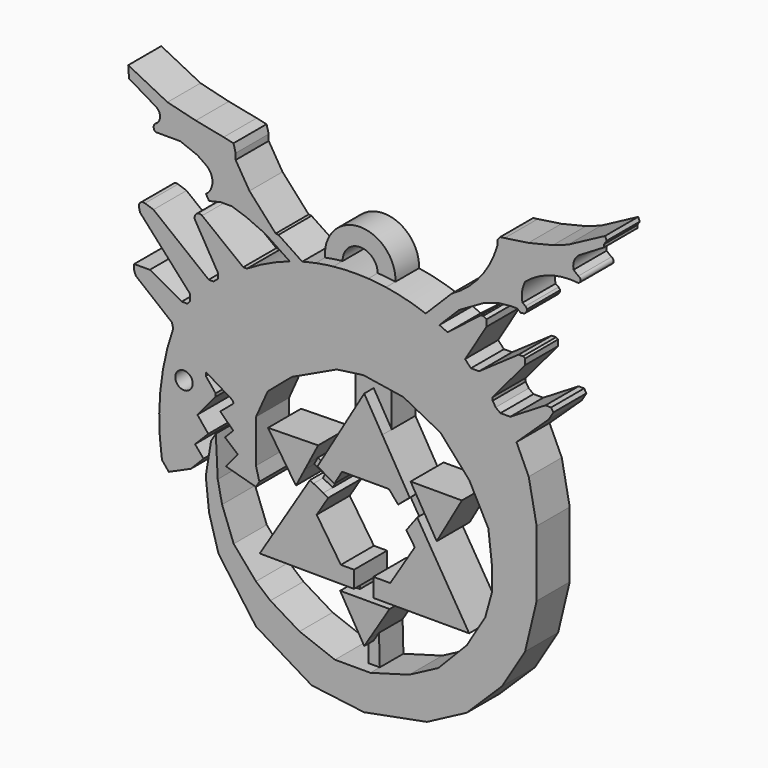
from build123d import *

# Parameters (mm, degrees)
F0_R     = 1.8790722081
F1_DEPTH = 8.89
F0_W     = 2.1618045866
F0_H     = 0.9653637382
F2_DEPTH = 6.35
F4_DEPTH = 8.89
F5_DEPTH = 2.54


with BuildPart() as f1:
    # F0 (on Front) → F1 (new body)
    with BuildSketch(Plane.XZ):
        with BuildLine():
            Line((-1.1144728633, 17.8208779544), (0.9005557937, 18.0979441624))
            Line((0.9005557937, 18.0979441624), (4.5786695555, 18.6036843807))
            Line((4.5786695555, 18.6036843807), (8.6607653156, 17.9626940169))
            Line((8.6607653156, 17.9626940169), (13.1895504892, 17.2515623271))
            Line((13.1895504892, 17.2515623271), (21.1599525064, 13.1240338087))
            Line((21.1599525064, 13.1240338087), (27.3512452841, 6.1499327421))
            Line((27.3512452841, 6.1499327421), (31.4787775278, -1.6781395534))
            Line((31.4787775278, -1.6781395534), (32.2615876794, -8.5099125281))
            Line((32.2615876794, -8.5099125281), (32.2615876794, -13.5182477534))
            Line((32.2615876794, -13.5182477534), (30.8090503731, -18.7672736273))
            Line((30.8090503731, -18.7672736273), (26.8104747984, -25.3736159282))
            Line((26.8104747984, -25.3736159282), (20.7308847457, -31.6288731992))
            Line((20.7308847457, -31.6288731992), (14.4617437631, -34.9344228377))
            Line((14.4617437631, -34.9344228377), (6.0900519602, -37.2990220785))
            Line((6.0900519602, -37.2990220785), (3.687746851, -37.2990220785))
            Line((3.687746851, -37.2990220785), (-1.5265647089, -37.2990220785))
            Line((-1.5265647089, -37.2990220785), (-9.1431820765, -34.421633929))
            Line((-9.1431820765, -34.421633929), (-15.4136279, -30.6263641155))
            Line((-15.4136279, -30.6263641155), (-18.5245797038, -27.9898215085))
            Line((-18.5245797038, -27.9898215085), (-23.3119223267, -22.4369391799))
            Line((-23.3119223267, -22.4369391799), (-25.8151125163, -15.803232789))
            Line((-25.8151125163, -15.803232789), (-26.7460327595, -11.317892))
            Line((-26.7460327595, -11.317892), (-27.1691773087, -2.8366867919))
            Line((-27.1691773087, -2.8366867919), (-28.1843401019, -4.5139122882))
            Line((-28.1843401019, -4.5139122882), (-29.3260235339, -11.5534830838))
            Line((-29.3260235339, -11.5534830838), (-28.6078713834, -18.2814951986))
            Line((-28.6078713834, -18.2814951986), (-26.5847500414, -25.3736159282))
            Line((-26.5847500414, -25.3736159282), (-18.5245797038, -36.5274697542))
            Line((-18.5245797038, -36.5274697542), (-6.5424849815, -43.7797901924))
            Line((-6.5424849815, -43.7797901924), (4.7275410034, -45.2095121145))
            Line((4.7275410034, -45.2095121145), (18.2487554848, -42.647600174))
            Line((18.2487554848, -42.647600174), (26.8104747984, -38.1332355648))
            Line((26.8104747984, -38.1332355648), (34.427797909, -30.6263641155))
            Line((34.427797909, -30.6263641155), (39.3845550716, -22.4369391799))
            Line((39.3845550716, -22.4369391799), (41.8753027916, -12.0469518006))
            Line((41.8753027916, -12.0469518006), (41.8753027916, -4.5035374351))
            Line((41.8753027916, -4.5035374351), (41.8753027916, 2.1307647694))
            Line((41.8753027916, 2.1307647694), (40.1673577726, 10.9391137958))
            Line((40.1673577726, 10.9391137958), (37.5342816114, 16.6322570294))
            Line((37.5342816114, 16.6322570294), (44.4487631321, 23.1620669365))
            Line((44.4487631321, 23.1620669365), (45.4629400929, 24.8376636662))
            Line((45.4629400929, 24.8376636662), (44.9877740223, 25.6167648756))
            Line((44.9877740223, 25.6167648756), (43.7717288733, 25.6167648756))
            Line((43.7717288733, 25.6167648756), (36.183142208, 20.9885614239))
            Line((36.183142208, 20.9885614239), (34.081697464, 20.9885614239))
            Line((34.081697464, 20.9885614239), (33.0561917204, 21.7507500205))
            Line((33.0561917204, 21.7507500205), (32.4108369544, 22.8088993915))
            Line((32.4108369544, 22.8088993915), (32.4108369544, 23.5005840659))
            Line((32.4108369544, 23.5005840659), (39.3845550716, 31.8077914417))
            Line((39.3845550716, 31.8077914417), (39.3845550716, 33.0658107996))
            Line((39.3845550716, 33.0658107996), (38.9320739965, 33.339680922))
            Line((38.9320739965, 33.339680922), (37.9929579794, 33.339680922))
            Line((37.9929579794, 33.339680922), (29.4887498021, 27.4298861623))
            Line((29.4887498021, 27.4298861623), (27.7275238186, 27.4298861623))
            Line((27.7275238186, 27.4298861623), (26.4743921324, 28.7568399344))
            Line((26.4743921324, 28.7568399344), (31.0902395811, 36.38302273))
            Line((31.0902395811, 36.38302273), (31.0902395811, 37.7959646285))
            Line((31.0902395811, 37.7959646285), (30.3959461262, 38.2161948745))
            Line((30.3959461262, 38.2161948745), (29.7648441046, 38.0856841803))
            Line((29.7648441046, 38.0856841803), (22.6967222989, 32.590828836))
            ThreePointArc((22.6967222989, 32.590828836), (21.8354121906, 33.0149012814), (20.9650448264, 33.4200595134))
            ThreePointArc((20.9650448264, 33.4200595134), (19.4938432958, 34.0534219241), (18.0005403743, 34.632756259))
            ThreePointArc((18.0005403743, 34.632756259), (4.8067672625, 37.2819979642), (-8.5701480437, 35.8149371522))
            ThreePointArc((-8.5701480437, 35.8149371522), (-9.9155865265, 35.4297200434), (-11.2480782599, 35.0018617581))
            ThreePointArc((-11.2480782599, 35.0018617581), (-15.9797645377, 33.0859868147), (-20.4573832452, 30.6343827397))
            Line((-20.4573832452, 30.6343827397), (-21.2644580752, 30.6343827397))
            Line((-21.2644580752, 30.6343827397), (-30.1094260067, 37.5330559909))
            ThreePointArc((-30.1094260067, 37.5330559909), (-31.3693550973, 37.43736362), (-31.6182412207, 36.1985601485))
            Line((-31.6182412207, 36.1985601485), (-26.7214495689, 27.8310831636))
            Line((-26.7214495689, 27.8310831636), (-26.7214495689, 26.6070012003))
            Line((-26.7214495689, 26.6070012003), (-27.6707075536, 25.85571073))
            Line((-27.6707075536, 25.85571073), (-28.6891963333, 25.85571073))
            Line((-28.6891963333, 25.85571073), (-40.5738130212, 35.2558642626))
            Line((-40.5738130212, 35.2558642626), (-42.401380837, 35.878829658))
            ThreePointArc((-42.401380837, 35.878829658), (-43.3916691971, 35.6742020743), (-43.6928756535, 34.7088947892))
            Line((-43.6928756535, 34.7088947892), (-43.4794422081, 33.7966362892))
            Line((-43.4794422081, 33.7966362892), (-32.7271558344, 21.8976233155))
            Line((-32.7271558344, 21.8976233155), (-32.7271558344, 20.4519666731))
            Line((-32.7271558344, 20.4519666731), (-33.2622043788, 19.8157839477))
            Line((-33.2622043788, 19.8157839477), (-34.4988927245, 19.8157839477))
            Line((-34.4988927245, 19.8157839477), (-41.3627363741, 23.6098729074))
            Line((-41.3627363741, 23.6098729074), (-44.7284728289, 23.6098729074))
            Line((-44.7284728289, 23.6098729074), (-44.7284728289, 22.3980825394))
            Line((-44.7284728289, 22.3980825394), (-44.3728975952, 21.4856527746))
            Line((-44.3728975952, 21.4856527746), (-36.6113372147, 15.2060212567))
            Line((-36.6113372147, 15.2060212567), (-36.3426655531, 14.070388861))
            ThreePointArc((-36.3426655531, 14.070388861), (-39.1053727108, 1.4009347824), (-38.7500412762, -11.5613704547))
            Line((-38.7500412762, -11.5613704547), (-37.2882336378, -13.3456317708))
            Line((-37.2882336378, -13.3456317708), (-32.4976406991, -11.1901704222))
            Line((-32.4976406991, -11.1901704222), (-29.8047587276, -8.4075266495))
            Line((-29.8047587276, -8.4075266495), (-31.629934907, -6.2532220036))
            Line((-31.629934907, -6.2532220036), (-28.7874490023, -3.3808154985))
            Line((-28.7874490023, -3.3808154985), (-31.1212781817, -0.5084091099))
            Line((-31.1212781817, -0.5084091099), (-27.2016394883, 4.159251228))
            Line((-27.2016394883, 4.159251228), (-27.2016394883, 4.817510955))
            Line((-27.2016394883, 4.817510955), (-29.3260235339, 7.4206292629))
            Line((-29.3260235339, 7.4206292629), (-29.3260235339, 8.198573254))
            Line((-29.3260235339, 8.198573254), (-23.6410517246, 4.7576692887))
            Line((-23.6410517246, 4.7576692887), (-23.3119223267, 4.159251228))
            Line((-23.3119223267, 4.159251228), (-26.2142494321, 1.7057375517))
            Line((-26.2142494321, 1.7057375517), (-23.4016850591, -1.0170644382))
            Line((-23.4016850591, -1.0170644382), (-25.1967903014, -2.8713487634))
            Line((-25.1967903014, -2.8713487634), (-22.4068159003, -5.2142123877))
            Line((-22.4068159003, -5.2142123877), (-24.9924420589, -8.2932779887))
            Line((-24.9924420589, -8.2932779887), (-18.5245797038, -10.0830979645))
            Line((-18.5245797038, -10.0830979645), (-17.7879738761, -8.8660970231))
            Line((-17.7879738761, -8.8660970231), (-18.5245797038, -6.0903253034))
            Line((-18.5245797038, -6.0903253034), (-18.5245797038, 3.1610324513))
            Line((-18.5245797038, 3.1610324513), (-15.9878097475, 8.8541759178))
            Line((-15.9878097475, 8.8541759178), (-10.7928160578, 13.2663622499))
            Line((-10.7928160578, 13.2663622499), (-1.1144728633, 17.8208779544))
        make_face()
        with Locations((-34.0116806328, 5.0595379435)):
            Circle(F0_R, mode=Mode.SUBTRACT)
        with BuildLine():
            ThreePointArc((33.4480032325, 52.591200918), (29.7605465382, 45.4157446602), (23.5889479518, 40.2199886739))
            Line((23.5889479518, 40.2199886739), (22.9964572936, 39.2483025789))
            Line((22.9964572936, 39.2483025789), (23.3282521367, 37.9211232066))
            Line((23.3282521367, 37.9211232066), (23.5889479518, 37.6604273915))
            Line((23.5889479518, 37.6604273915), (25.200502556, 37.6546265866))
            Line((25.200502556, 37.6546265866), (30.3907468915, 40.622882545))
            Line((30.3907468915, 40.622882545), (33.6849987507, 41.7130663991))
            Line((33.6849987507, 41.7130663991), (36.3393574953, 41.9974625111))
            Line((36.3393574953, 41.9974625111), (37.6665368676, 41.9974625111))
            Line((37.6665368676, 41.9974625111), (38.4486243129, 41.4049699903))
            Line((38.4486243129, 41.4049699903), (39.2489764468, 41.5336121896))
            Line((39.2489764468, 41.5336121896), (39.681006223, 41.9974625111))
            Line((39.681006223, 41.9974625111), (39.8469045758, 42.566254735))
            Line((39.8469045758, 42.566254735), (39.4677110016, 43.0165454745))
            Line((39.4677110016, 43.0165454745), (38.8208776712, 43.4471555054))
            ThreePointArc((38.8208776712, 43.4471555054), (38.7424515185, 45.6200788426), (39.447657764, 47.6768799126))
            ThreePointArc((39.447657764, 47.6768799126), (44.7926729583, 50.5702274194), (50.8470125496, 51.1046610773))
            ThreePointArc((50.8470125496, 51.1046610773), (51.3210236698, 51.762316376), (50.8470125496, 52.4199716747))
            Line((50.8470125496, 52.4199716747), (49.8046092689, 53.2594025135))
            ThreePointArc((49.8046092689, 53.2594025135), (49.9730575269, 55.0652678114), (51.1117465794, 56.4769729972))
            Line((51.1117465794, 56.4769729972), (56.4073324203, 59.6610270441))
            Line((56.4073324203, 59.6610270441), (56.4073324203, 60.2588988841))
            Line((56.4073324203, 60.2588988841), (56.9526590407, 61.0959120095))
            Line((56.9526590407, 61.0959120095), (56.6025562584, 61.8814639747))
            Line((56.6025562584, 61.8814639747), (48.639472574, 57.6392263174))
            Line((48.639472574, 57.6392263174), (45.368924737, 56.4769729972))
            Line((45.368924737, 56.4769729972), (40.0839038193, 55.1981627941))
            Line((40.0839038193, 55.1981627941), (35.0124505935, 54.4615999026))
            Line((35.0124505935, 54.4615999026), (34.0005464155, 54.3146339277))
            Line((34.0005464155, 54.3146339277), (33.4480032325, 53.6576882005))
            Line((33.4480032325, 53.6576882005), (33.4480032325, 52.591200918))
        make_face()
        with BuildLine():
            Line((23.5889479518, 40.2199886739), (18.0005403743, 34.632756259))
            ThreePointArc((18.0005403743, 34.632756259), (19.4938432958, 34.0534219241), (20.9650448264, 33.4200595134))
            Line((20.9650448264, 33.4200595134), (25.200502556, 37.6546265866))
            Line((25.200502556, 37.6546265866), (23.5889479518, 37.6604273915))
            Line((23.5889479518, 37.6604273915), (23.3282521367, 37.9211232066))
            Line((23.3282521367, 37.9211232066), (22.9964572936, 39.2483025789))
            Line((22.9964572936, 39.2483025789), (23.5889479518, 40.2199886739))
        make_face()
        with BuildLine():
            Line((-16.5022276342, 38.5046340525), (-14.8832490668, 37.4253131449))
            ThreePointArc((-14.8832490668, 37.4253131449), (-13.3841918208, 37.725124532), (-13.6840054765, 39.2241813242))
            Line((-13.6840054765, 39.2241813242), (-14.2836259105, 39.2848826653))
            Line((-14.2836259105, 39.2848826653), (-19.9200697243, 45.5202050507))
            Line((-19.9200697243, 45.5202050507), (-22.8940854665, 50.4153112003))
            Line((-22.8940854665, 50.4153112003), (-22.8940854665, 51.7239533365))
            Line((-22.8940854665, 51.7239533365), (-23.3581475914, 53.4341596067))
            Line((-23.3581475914, 53.4341596067), (-25.4829544574, 53.9005808532))
            Line((-25.4829544574, 53.9005808532), (-31.4807146788, 55.0996400416))
            Line((-31.4807146788, 55.0996400416), (-37.5643000007, 56.5918385983))
            Line((-37.5643000007, 56.5918385983), (-46.0110194981, 60.8619563282))
            Line((-46.0110194981, 60.8619563282), (-45.8345761711, 58.3823424056))
            Line((-45.8345761711, 58.3823424056), (-40.0783327647, 54.95255101))
            ThreePointArc((-40.0783327647, 54.95255101), (-39.1657071411, 53.3464273228), (-40.0783327647, 51.7403036356))
            ThreePointArc((-40.0783327647, 51.7403036356), (-40.5365189738, 50.9210061282), (-40.0783327647, 50.1017086208))
            Line((-40.0783327647, 50.1017086208), (-34.8242484033, 50.1017086208))
            Line((-34.8242484033, 50.1017086208), (-31.1220685784, 48.6589712544))
            Line((-31.1220685784, 48.6589712544), (-29.2741656303, 47.3790317774))
            ThreePointArc((-29.2741656303, 47.3790317774), (-27.8891396682, 44.65075396), (-29.2741656303, 41.9224761426))
            Line((-29.2741656303, 41.9224761426), (-28.6145824939, 40.7831966877))
            Line((-28.6145824939, 40.7831966877), (-26.0961707681, 41.3828156888))
            Line((-26.0961707681, 41.3828156888), (-23.6976854503, 41.3828156888))
            Line((-23.6976854503, 41.3828156888), (-20.6396151334, 40.3634607792))
            Line((-20.6396151334, 40.3634607792), (-16.5022276342, 38.5046340525))
        make_face()
        with BuildLine():
            Line((-14.8832490668, 37.4253131449), (-11.2480782599, 35.0018617581))
            ThreePointArc((-11.2480782599, 35.0018617581), (-9.9155865265, 35.4297200434), (-8.5701480437, 35.8149371522))
            Line((-8.5701480437, 35.8149371522), (-13.6840054765, 39.2241813242))
            ThreePointArc((-13.6840054765, 39.2241813242), (-13.3841918208, 37.725124532), (-14.8832490668, 37.4253131449))
        make_face()
    extrude(amount=F1_DEPTH)



with BuildPart() as f1b:
    # F0 (on Front) → F1, piece 2 (new body)
    with BuildSketch(Plane.XZ):
        Polygon((8.6607653156, 8.6091229426), (4.7738444991, 15.1798808947), (0.9005557937, 8.6091229426), (-5.2795778029, -1.8750327872), (-4.5122875626, -2.3273301695), (-2.3280265122, -3.6148945141), (-1.6645888073, -4.0059735628), (0, -1.1821174101), (10.0997649133, -1.1821174101), (12.0745450258, -3.4907613881), (12.7337668106, -2.9268727666), (14.0643730923, -1.7886917185), (14.5605225876, -1.3642927356), align=None)
    extrude(amount=F1_DEPTH)


with BuildPart() as f1c:
    # F0 (on Front) → F1, piece 3 (new body)
    with BuildSketch(Plane.XZ):
        Polygon((14.7435625283, 1.7504653661), (16.1629202518, -0.6442068118), (17.6239035547, -3.1091076676), (20.3657057136, -7.7349445783), (25.7813874632, 1.7504653661), align=None)
    extrude(amount=F1_DEPTH)


with BuildPart() as f1d:
    # F0 (on Front) → F1, piece 4 (new body)
    with BuildSketch(Plane.XZ):
        Polygon((15.9566982752, -4.8914234369), (14.8445480795, -6.3877937822), (13.843302615, -7.7349445783), (15.6438224416, -10.4279768399), (10.3789112784, -18.906810134), (6.7212032154, -18.906810134), (6.7212032154, -22.3521776497), (6.7212032154, -22.9057054967), (7.3707727715, -22.9057054967), (9.5325773582, -22.9057054967), (27.3527130485, -22.9057054967), (16.1815062165, -4.5889499597), align=None)
    extrude(amount=F1_DEPTH)


with BuildPart() as f1e:
    # F0 (on Front) → F1, piece 5 (new body)
    with BuildSketch(Plane.XZ):
        Polygon((-2.9658662792, -7.0987657675), (-4.0456364561, -6.5286972424), (-6.1451941598, -5.4202282466), (-6.8988278508, -5.0223446451), (-17.7123784879, -22.4369391799), (0.1813902407, -22.5283183467), (1.8068911786, -22.5366193885), (2.5796301197, -22.5405655801), (2.5796301197, -18.906810134), (-0.2510766369, -18.906810134), (-5.4601337761, -11.1156385392), align=None)
    extrude(amount=F1_DEPTH)


with BuildPart() as f1f:
    # F0 (on Front) → F1, piece 6 (new body)
    with BuildSketch(Plane.XZ):
        Polygon((1.8068911786, -23.8710692349), (0.1813902407, -23.8710692349), (-0.4085782857, -23.8710692349), (3.687746851, -30.8111024309), (4.7744596377, -32.6522216201), (5.9176981748, -30.8111024309), (10.2270951142, -23.8710692349), (9.5325773582, -23.8710692349), (7.3707727715, -23.8710692349), align=None)
    extrude(amount=F1_DEPTH)


with BuildPart() as f1g:
    # F0 (on Front) → F1, piece 7 (new body)
    with BuildSketch(Plane.XZ):
        Polygon((-8.0203993943, -3.3862734447), (-7.2509952591, -1.908794535), (-5.1473756321, 2.1307647694), (-15.9287657589, 1.952854218), (-9.9201118641, -7.0342719159), align=None)
    extrude(amount=F1_DEPTH)


with BuildPart() as f1_1:
    add(f1.part)

    add(f1b.part)  # F2 merges F1b

    add(f1c.part)  # F2 merges F1c

    add(f1d.part)  # F2 merges F1d

    add(f1e.part)  # F2 merges F1e

    add(f1f.part)  # F2 merges F1f

    add(f1g.part)  # F2 merges F1g
    # F0 (on Front) → F2 (join)
    with BuildSketch(Plane.XZ):
        Polygon((0.9005557937, 8.6091229426), (4.7738444991, 15.1798808947), (8.6607653156, 8.6091229426), (8.6607653156, 17.9626940169), (4.5786695555, 18.6036843807), (0.9005557937, 18.0979441624), align=None)
        Polygon((-2.3280265122, -3.6148945141), (-4.5122875626, -2.3273301695), (-4.9364616511, -3.130760828), (-7.2509952591, -1.908794535), (-8.0203993943, -3.3862734447), (-5.714183489, -4.6038483769), (-6.1451941598, -5.4202282466), (-4.0456364561, -6.5286972424), align=None)
        Polygon((-2.3280265122, -3.6148945141), (-4.5122875626, -2.3273301695), (-4.9364616511, -3.130760828), (-7.2509952591, -1.908794535), (-8.0203993943, -3.3862734447), (-5.714183489, -4.6038483769), (-6.1451941598, -5.4202282466), (-4.0456364561, -6.5286972424), align=None)
        Polygon((14.3251245665, -2.2162302181), (14.0643730923, -1.7886917185), (12.7337668106, -2.9268727666), (14.8445480795, -6.3877937822), (15.9566982752, -4.8914234369), (15.8139290157, -4.6573332744), (17.6239035547, -3.1091076676), (16.1629202518, -0.6442068118), align=None)
        Polygon((14.3251245665, -2.2162302181), (14.0643730923, -1.7886917185), (12.7337668106, -2.9268727666), (14.8445480795, -6.3877937822), (15.9566982752, -4.8914234369), (15.8139290157, -4.6573332744), (17.6239035547, -3.1091076676), (16.1629202518, -0.6442068118), align=None)
        Polygon((1.8068911786, -22.5366193885), (0.1813902407, -22.5283183467), (0.1813902407, -23.8710692349), (1.8068911786, -23.8710692349), align=None)
        with Locations((8.4516750649, -23.3883873658)):
            Rectangle(F0_W, F0_H)
        Polygon((4.7744596377, -32.6522216201), (3.687746851, -30.8111024309), (3.687746851, -37.2990220785), (6.0900519602, -37.2990220785), (5.9176981748, -30.8111024309), align=None)
    extrude(amount=F2_DEPTH)

    # F3 (on face) → F4 (join)
    with BuildSketch(Plane.XZ.offset(8.89)):
        with BuildLine():
            ThreePointArc((5.6422127484, 37.2368560009), (7.5493510982, 37.0738268886), (9.4475824894, 36.827914786))
            ThreePointArc((9.4475824894, 36.827914786), (1.7010778952, 44.744492856), (-5.6826978894, 36.4885618407))
            ThreePointArc((-5.6826978894, 36.4885618407), (-3.7974007854, 36.8193336753), (-1.8994896288, 37.0677052086))
            ThreePointArc((-1.8994896288, 37.0677052086), (1.7865552687, 40.9334264013), (5.6422127484, 37.2368560009))
        make_face()
    extrude(amount=-F4_DEPTH)

    # F3 (on face) → F5 (cut)
    with BuildSketch(Plane.XZ.offset(8.89)):
        with BuildLine():
            ThreePointArc((5.6422127484, 37.2368560009), (7.5493510982, 37.0738268886), (9.4475824894, 36.827914786))
            ThreePointArc((9.4475824894, 36.827914786), (1.7010778952, 44.744492856), (-5.6826978894, 36.4885618407))
            ThreePointArc((-5.6826978894, 36.4885618407), (-3.7974007854, 36.8193336753), (-1.8994896288, 37.0677052086))
            ThreePointArc((-1.8994896288, 37.0677052086), (1.7865552687, 40.9334264013), (5.6422127484, 37.2368560009))
        make_face()
    extrude(amount=-F5_DEPTH, mode=Mode.SUBTRACT)


solid = f1_1.part
